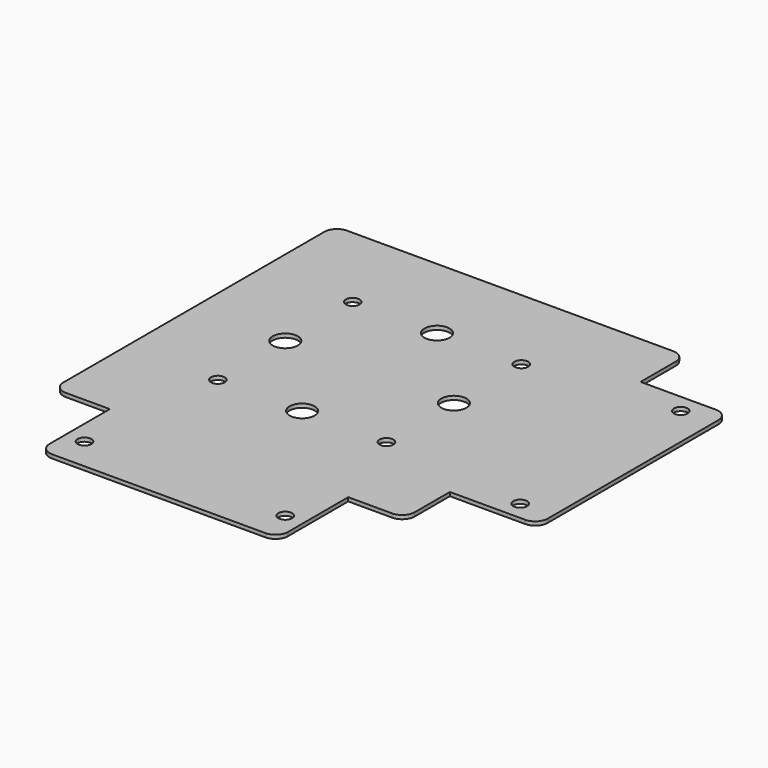
from build123d import *

# Parameters (mm, degrees)
F0_W     = 35
F0_H     = 95
F0_R     = 2.75
F0_W_2   = 95
F0_H_2   = 35
F1_DEPTH = 1.5
F2_R     = 2.75
F2_R_2   = 5
F3_DEPTH = 1.501
F4_R     = 5
F5_R     = 5


with BuildPart() as f1:
    # F0 (on Top) → F1 (new body)
    with BuildSketch(Plane.XY):
        Polygon((70, 70), (-70, 70), (-70, -70), (-47.5, -70), (47.5, -70), (70, -70), (70, -47.5), (70, 47.5), align=None)
        with Locations((87.5, 0)):
            Rectangle(F0_W, F0_H)
        with Locations((92, -40)):
            Circle(F0_R, mode=Mode.SUBTRACT)
        with Locations((92, 40)):
            Circle(F0_R, mode=Mode.SUBTRACT)
        with Locations((0, -87.5)):
            Rectangle(F0_W_2, F0_H_2)
        with Locations((-40, -92)):
            Circle(F0_R, mode=Mode.SUBTRACT)
        with Locations((40, -92)):
            Circle(F0_R, mode=Mode.SUBTRACT)
    extrude(amount=F1_DEPTH)

    # F2 (on face) → F3 (cut, through all)
    with BuildSketch(Plane.XY.offset(1.5)):
        with Locations((-33.587572, -33.587572)):
            Circle(F2_R)
        with Locations((33.587572, -33.587572)):
            Circle(F2_R)
        with Locations((-33.587572, 33.587572)):
            Circle(F2_R)
        with Locations((33.587572, 33.587572)):
            Circle(F2_R)
        with Locations((0, -33.587572)):
            Circle(F2_R_2)
        with Locations((33.587572, 0)):
            Circle(F2_R_2)
        with Locations((-33.587572, 0)):
            Circle(F2_R_2)
        with Locations((0, 33.587572)):
            Circle(F2_R_2)
    extrude(amount=-F3_DEPTH, mode=Mode.SUBTRACT)

    # F4
    f4_edges = [f1.edges().sort_by_distance(p)[0] for p in [
        (70, -70, 0.75),
        (-70, -70, 0.75),
        (70, 70, 0.75),
        (-70, 70, 0.75),
    ]]
    fillet(f4_edges, radius=F4_R)

    # F5
    f5_edges = [f1.edges().sort_by_distance(p)[0] for p in [
        (-47.5, -105, 0.75),
        (47.5, -105, 0.75),
        (105, -47.5, 0.75),
        (105, 47.5, 0.75),
    ]]
    fillet(f5_edges, radius=F5_R)


solid = f1.part
